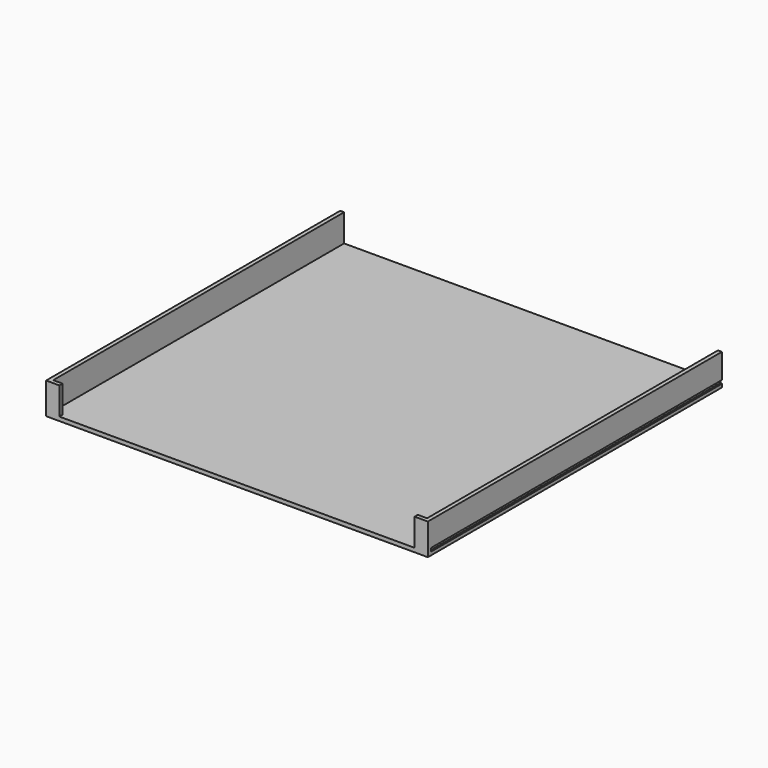
from build123d import *

# Parameters (mm, degrees)
F1_DEPTH = 1100
F3_DEPTH = 12


with BuildPart() as f1:
    # F0 (on Front) → F1 (new body)
    with BuildSketch(Plane.XZ):
        Polygon((565.5, 12), (-565.5, 12), (-565.5, 95), (-577.5, 95), (-577.5, 20), (-572.5, 20), (-572.5, 10), (-577.5, 10), (-577.5, 0), (577.5, 0), (577.5, 10), (572.5, 10), (572.5, 20), (577.5, 20), (577.5, 95), (565.5, 95), align=None)
    extrude(amount=-F1_DEPTH)

    # F2 (on Front) → F3 (join)
    with BuildSketch(Plane.XZ):
        Polygon((-537.5, 95), (-577.5, 95), (-577.5, 0), (577.5, 0), (577.5, 95), (537.5, 95), (537.5, 12), (-537.5, 12), align=None)
    extrude(amount=F3_DEPTH)


solid = f1.part
